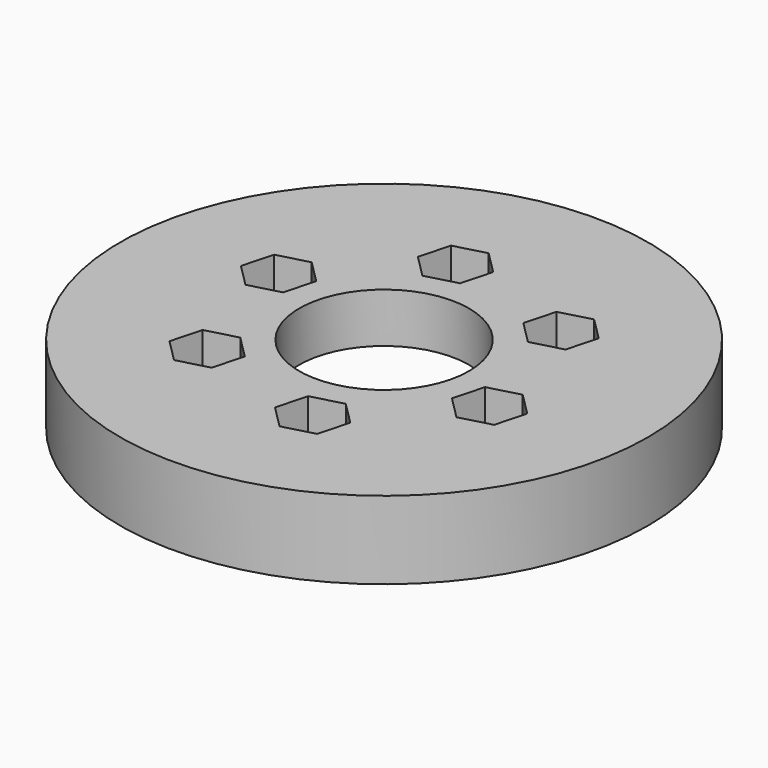
from build123d import *

# Parameters (mm, degrees)
F0_R     = 45.212
F1_DEPTH = 13.335
F2_R     = 2.5908
F3_DEPTH = 25.4
F4_R     = 14.5415
F5_DEPTH = 25.4
F7_DEPTH = 5.969
F8_R     = 28.829
F9_DEPTH = 4.826


with BuildPart() as f1:
    # F0 (on Top) → F1 (new body)
    with BuildSketch(Plane.XY):
        Circle(F0_R)
    extrude(amount=F1_DEPTH)

    # F2 (on face) → F3 (cut)
    with BuildSketch(Plane.XY.offset(13.335)):
        with Locations((-6.163129, 23.001109)):
            Circle(F2_R)
        with Locations((-23.001109, 6.163129)):
            Circle(F2_R)
        with Locations((-16.83798, -16.83798)):
            Circle(F2_R)
        with Locations((6.163129, -23.001109)):
            Circle(F2_R)
        with Locations((23.001109, -6.163129)):
            Circle(F2_R)
        with Locations((16.83798, 16.83798)):
            Circle(F2_R)
    extrude(amount=-F3_DEPTH, mode=Mode.SUBTRACT)

    # F4 (on face) → F5 (cut)
    with BuildSketch(Plane.XY.offset(13.335)):
        Circle(F4_R)
    extrude(amount=-F5_DEPTH, mode=Mode.SUBTRACT)

    # F6 (on face) → F7 (cut)
    with BuildSketch(Plane.XY.offset(13.335)):
        Polygon((-4.739815, 28.312987), (-10.051693, 26.889674), (-11.475007, 21.577795), (-7.586442, 17.68923), (-2.274564, 19.112544), (-0.85125, 24.424422), align=None)
        Polygon((22.149859, 18.261294), (18.261294, 22.149859), (12.949415, 20.726545), (11.526102, 15.414667), (15.414667, 11.526102), (20.726545, 12.949415), align=None)
        Polygon((26.889674, -10.051693), (28.312987, -4.739815), (24.424422, -0.85125), (19.112544, -2.274564), (17.68923, -7.586442), (21.577795, -11.475007), align=None)
        Polygon((4.739815, -28.312987), (10.051693, -26.889674), (11.475007, -21.577795), (7.586442, -17.68923), (2.274564, -19.112544), (0.85125, -24.424422), align=None)
        Polygon((-22.149859, -18.261294), (-18.261294, -22.149859), (-12.949415, -20.726545), (-11.526102, -15.414667), (-15.414667, -11.526102), (-20.726545, -12.949415), align=None)
        Polygon((-26.889674, 10.051693), (-28.312987, 4.739815), (-24.424422, 0.85125), (-19.112544, 2.274564), (-17.68923, 7.586442), (-21.577795, 11.475007), align=None)
    extrude(amount=-F7_DEPTH, mode=Mode.SUBTRACT)

    # F8 (on face) → F9 (cut)
    with BuildSketch(Plane(origin=(0, 0, 0), x_dir=(1, 0, 0), z_dir=(0, 0, -1))):
        Circle(F8_R)
    extrude(amount=-F9_DEPTH, mode=Mode.SUBTRACT)


solid = f1.part
